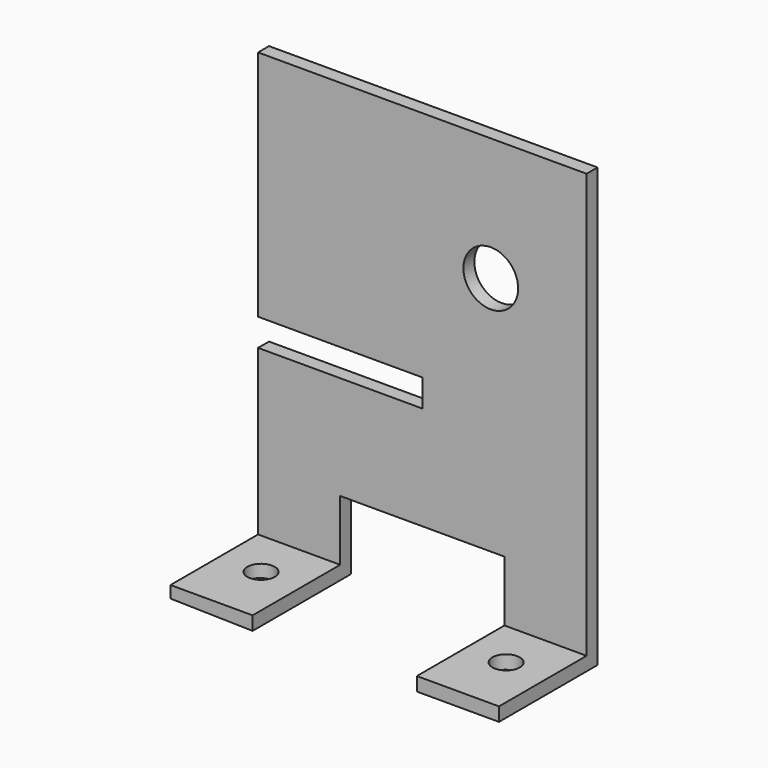
from build123d import *

# Parameters (mm, degrees)
F0_R     = 12.7
F1_DEPTH = 6.35
F2_W     = 38.1
F2_H     = 6.35
F3_DEPTH = 50.8
F4_R     = 6.35
F5_DEPTH = 25.4


with BuildPart() as f1:
    # F0 (on Front) → F1 (new body)
    with BuildSketch(Plane.XZ):
        Polygon((85.480769, 127.986667), (-66.919231, 127.986667), (-66.919231, 20.036667), (9.280769, 20.036667), (9.280769, 7.336667), (-66.919231, 7.336667), (-66.919231, -74.401039), (-28.819231, -75.213333), (-28.819231, -40.757814), (47.380769, -40.757814), (47.380769, -75.213333), (85.480769, -75.213333), align=None)
        with Locations((41.030769, 70.836667)):
            Circle(F0_R, mode=Mode.SUBTRACT)
    extrude(amount=F1_DEPTH)

    # F2 (on face) → F3 (join)
    with BuildSketch(Plane.XZ.offset(6.35)):
        Polygon((-28.819231, -68.863333), (-66.919231, -68.863333), (-66.919231, -74.401039), (-28.819231, -75.213333), align=None)
        with Locations((66.430769, -72.038333)):
            Rectangle(F2_W, F2_H)
    extrude(amount=F3_DEPTH)

    # F4 (on face) → F5 (cut)
    with BuildSketch(Plane(origin=(-1.615918, 0, -75.79331), x_dir=(0.999773, 0, -0.021315), z_dir=(-0.021315, 0, -0.999773))):
        with Locations((-46.263823, 28.575)):
            Circle(F4_R)
        with Locations((67.389801, 28.575)):
            Circle(F4_R)
    extrude(amount=-F5_DEPTH, mode=Mode.SUBTRACT)


solid = f1.part
